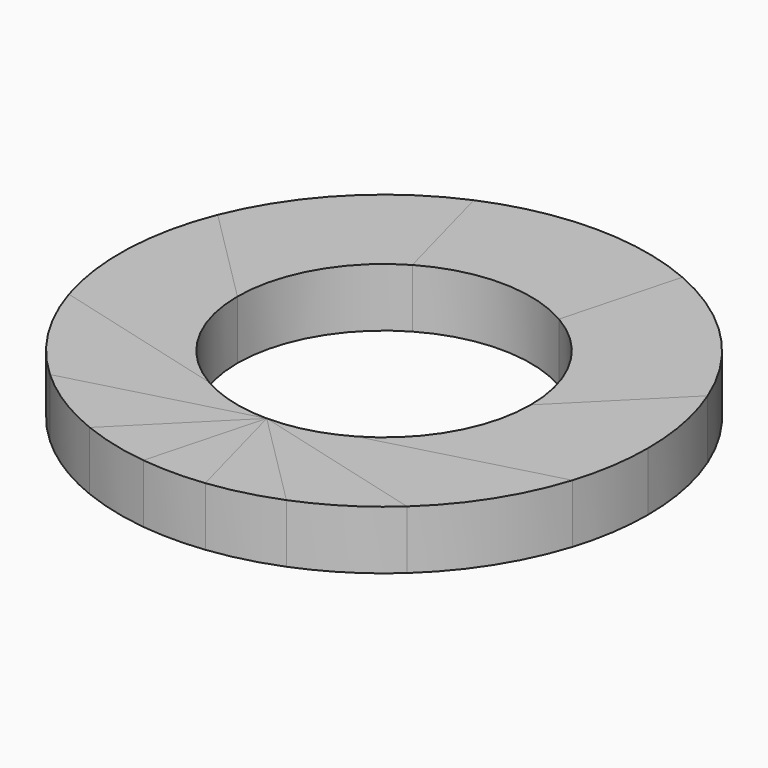
from build123d import *

# Parameters (mm, degrees)
F1_DEPTH = 25.4
F2_DEPTH = 25.4


with BuildPart() as f1:
    # F0 (on Top) → F1 (new body)
    with BuildSketch(Plane.XY):
        with BuildLine():
            Line((-63.5, 0), (-106.0748444331, 42.5748444331))
            ThreePointArc((-106.0748444331, 42.5748444331), (-114.2151898846, 4.4023175283), (-109.0372792311, -34.2835490851))
            Line((-109.0372792311, -34.2835490851), (-31.75, -54.9926131403))
            ThreePointArc((-31.75, -54.9926131403), (-54.9926131403, -31.75), (-63.5, 0))
        make_face()
    extrude(amount=F1_DEPTH)


with BuildPart() as f1b:
    # F0 (on Top) → F1, piece 2 (new body)
    with BuildSketch(Plane.XY):
        with BuildLine():
            Line((-42.5748444331, -106.0748444331), (0, -63.5))
            Line((0, -63.5), (-77.2872792311, -84.2090640552))
            ThreePointArc((-77.2872792311, -84.2090640552), (-60.9201137573, -96.712097174), (-42.5748444331, -106.0748444331))
        make_face()
    extrude(amount=F1_DEPTH)


with BuildPart() as f1c:
    # F0 (on Top) → F1, piece 3 (new body)
    with BuildSketch(Plane.XY):
        with BuildLine():
            Line((13.4006038104, -113.5117342724), (0, -63.5))
            Line((0, -63.5), (-13.4006038104, -113.5117342724))
            ThreePointArc((-13.4006038104, -113.5117342724), (0, -114.3), (13.4006038104, -113.5117342724))
        make_face()
    extrude(amount=F1_DEPTH)


with BuildPart() as f1d:
    # F0 (on Top) → F1, piece 4 (new body)
    with BuildSketch(Plane.XY):
        with BuildLine():
            ThreePointArc((42.5748444331, -106.0748444331), (60.9201137573, -96.712097174), (77.2872792311, -84.2090640552))
            Line((77.2872792311, -84.2090640552), (0, -63.5))
            Line((0, -63.5), (42.5748444331, -106.0748444331))
        make_face()
    extrude(amount=F1_DEPTH)


with BuildPart() as f1e:
    # F0 (on Top) → F1, piece 5 (new body)
    with BuildSketch(Plane.XY):
        with BuildLine():
            ThreePointArc((109.0372792311, -34.2835490851), (112.9766591295, -17.3425630153), (114.3, 0))
            ThreePointArc((114.3, 0), (112.224874067, 21.6810433478), (106.0748444331, 42.5748444331))
            Line((106.0748444331, 42.5748444331), (63.5, 0))
            ThreePointArc((63.5, 0), (54.9926131403, -31.75), (31.75, -54.9926131403))
            Line((31.75, -54.9926131403), (109.0372792311, -34.2835490851))
        make_face()
    extrude(amount=F1_DEPTH)


with BuildPart() as f1f:
    # F0 (on Top) → F1, piece 6 (new body)
    with BuildSketch(Plane.XY):
        with BuildLine():
            Line((31.75, 54.9926131403), (45.1506038104, 105.0043474127))
            ThreePointArc((45.1506038104, 105.0043474127), (0, 114.3), (-45.1506038104, 105.0043474127))
            Line((-45.1506038104, 105.0043474127), (-31.75, 54.9926131403))
            ThreePointArc((-31.75, 54.9926131403), (0, 63.5), (31.75, 54.9926131403))
        make_face()
    extrude(amount=F1_DEPTH)


with BuildPart() as f2:
    # F0 (on Top) → F2 (new body)
    with BuildSketch(Plane.XY):
        with BuildLine():
            Line((-77.2872792311, -84.2090640552), (0, -63.5))
            ThreePointArc((0, -63.5), (-16.435009364, -61.3362899694), (-31.75, -54.9926131403))
            Line((-31.75, -54.9926131403), (-109.0372792311, -34.2835490851))
            ThreePointArc((-109.0372792311, -34.2835490851), (-96.4486886007, -61.3362899694), (-77.2872792311, -84.2090640552))
        make_face()
    extrude(amount=F2_DEPTH)


with BuildPart() as f2b:
    # F0 (on Top) → F2, piece 2 (new body)
    with BuildSketch(Plane.XY):
        with BuildLine():
            Line((-31.75, 54.9926131403), (-45.1506038104, 105.0043474127))
            ThreePointArc((-45.1506038104, 105.0043474127), (-81.8024740437, 79.8301023444), (-106.0748444331, 42.5748444331))
            Line((-106.0748444331, 42.5748444331), (-63.5, 0))
            ThreePointArc((-63.5, 0), (-54.9926131403, 31.75), (-31.75, 54.9926131403))
        make_face()
    extrude(amount=F2_DEPTH)


with BuildPart() as f2c:
    # F0 (on Top) → F2, piece 3 (new body)
    with BuildSketch(Plane.XY):
        with BuildLine():
            Line((63.5, 0), (106.0748444331, 42.5748444331))
            ThreePointArc((106.0748444331, 42.5748444331), (81.8024740437, 79.8301023444), (45.1506038104, 105.0043474127))
            Line((45.1506038104, 105.0043474127), (31.75, 54.9926131403))
            ThreePointArc((31.75, 54.9926131403), (54.9926131403, 31.75), (63.5, 0))
        make_face()
    extrude(amount=F2_DEPTH)


with BuildPart() as f2d:
    # F0 (on Top) → F2, piece 4 (new body)
    with BuildSketch(Plane.XY):
        with BuildLine():
            ThreePointArc((77.2872792311, -84.2090640552), (96.4486886007, -61.3362899694), (109.0372792311, -34.2835490851))
            Line((109.0372792311, -34.2835490851), (31.75, -54.9926131403))
            ThreePointArc((31.75, -54.9926131403), (16.435009364, -61.3362899694), (0, -63.5))
            Line((0, -63.5), (77.2872792311, -84.2090640552))
        make_face()
    extrude(amount=F2_DEPTH)


with BuildPart() as f2e:
    # F0 (on Top) → F2, piece 5 (new body)
    with BuildSketch(Plane.XY):
        with BuildLine():
            Line((42.5748444331, -106.0748444331), (0, -63.5))
            Line((0, -63.5), (13.4006038104, -113.5117342724))
            ThreePointArc((13.4006038104, -113.5117342724), (28.2336595951, -110.7580717865), (42.5748444331, -106.0748444331))
        make_face()
    extrude(amount=F2_DEPTH)


with BuildPart() as f2f:
    # F0 (on Top) → F2, piece 6 (new body)
    with BuildSketch(Plane.XY):
        with BuildLine():
            Line((-13.4006038104, -113.5117342724), (0, -63.5))
            Line((0, -63.5), (-42.5748444331, -106.0748444331))
            ThreePointArc((-42.5748444331, -106.0748444331), (-28.2336595951, -110.7580717865), (-13.4006038104, -113.5117342724))
        make_face()
    extrude(amount=F2_DEPTH)


solid = Compound([f1.part, f1b.part, f1c.part, f1d.part, f1e.part, f1f.part, f2.part, f2b.part, f2c.part, f2d.part, f2e.part, f2f.part])
